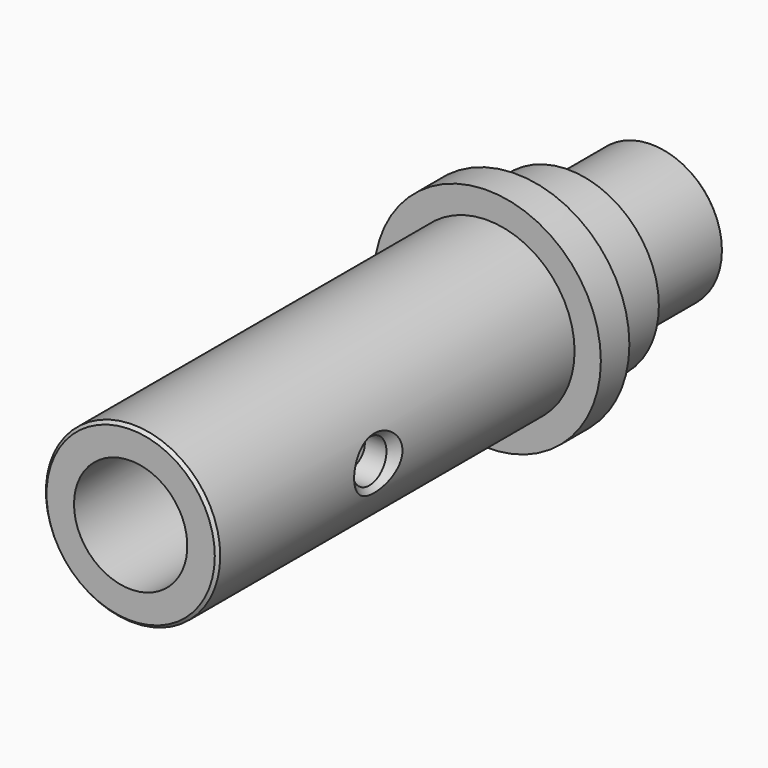
from build123d import *

# Parameters (mm, degrees)
F0_R            = 7.3279
F5_DEPTH        = 37.4904
F1_R            = 9.5377
F6_DEPTH        = 2.9972
F3_R            = 7.6073
F7_DEPTH        = 8.509
F4_R            = 5.9182
F8_DEPTH        = 17.5006
F9_SIZE         = 0.254
F11_D           = 9.525
F11_DEPTH       = 19.812
F11_TIP         = 2.8615986981
F13_D           = 4.2164
F17_D           = 3.5814
F17_DEPTH       = 6.35
F17_CSINK_D     = 5.08
F17_CSINK_ANGLE = 90
F17_TIP         = 1.0759611105


with BuildPart() as f5:
    # F0 (on Front) → F5 (new body)
    with BuildSketch(Plane.XZ):
        Circle(F0_R)
    extrude(amount=F5_DEPTH)

    # F1 (on Front) → F6 (join)
    with BuildSketch(Plane.XZ):
        Circle(F1_R)
    extrude(amount=-F6_DEPTH)

    # F3 (on Front) → F7 (join)
    with BuildSketch(Plane.XZ):
        Circle(F3_R)
    extrude(amount=-F7_DEPTH)

    # F4 (on Front) → F8 (join)
    with BuildSketch(Plane.XZ):
        Circle(F4_R)
    extrude(amount=-F8_DEPTH)

    # F9
    f9_edges = [f5.edges().sort_by_distance(p)[0] for p in [
        (-7.3279, -37.4904, 0),
        (-5.9182, 17.5006, 0),
    ]]
    chamfer(f9_edges, length=F9_SIZE)

    # F11
    with Locations(Plane.XZ.offset(37.4904)):
        with Locations((0, 0)):
            Hole(F11_D / 2, depth=F11_DEPTH)
            with Locations((0, 0, -(F11_DEPTH + F11_TIP / 2))):  # 118° drill point
                Cone(0, F11_D / 2, F11_TIP, mode=Mode.SUBTRACT)

    # F13 (through all)
    with Locations(Plane(origin=(0, 17.5006, 0), x_dir=(-1, 0, 0), z_dir=(0, 1, 0))):
        with Locations((0, 0)):
            Hole(F13_D / 2)

    # F17
    with Locations(Plane.YZ.offset(7.3279)):
        with Locations((-20.6248, 0)):
            CounterSinkHole(F17_D / 2, F17_CSINK_D / 2, depth=F17_DEPTH, counter_sink_angle=F17_CSINK_ANGLE)
            with Locations((0, 0, -(F17_DEPTH + F17_TIP / 2))):  # 118° drill point
                Cone(0, F17_D / 2, F17_TIP, mode=Mode.SUBTRACT)


solid = f5.part
